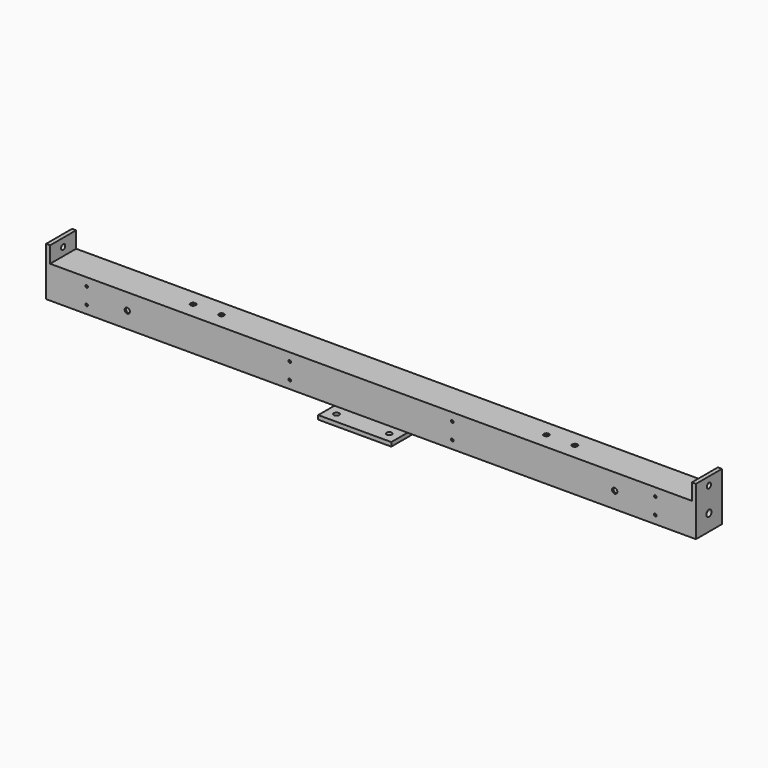
from build123d import *

# Parameters (mm, degrees)
F0_W      = 40
F0_H      = 40
F0_W_2    = 36
F0_H_2    = 36
F1_DEPTH  = 400
F2_W      = 40
F2_H      = 60
F3_DEPTH  = 5
F4_D      = 6.4
F6_D      = 6.5
F8_D      = 3.2
F9_D      = 8
F10_D     = 6.5
F13_W     = 90
F13_H     = 25
F13_H_2   = 40
F14_DEPTH = 5
F16_D     = 6.5
F17_D     = 14
F17_DEPTH = 10
F17_TIP   = 4.2060243332


with BuildPart() as f1:
    # F0 (on Right) → F1 (new body)
    with BuildSketch(Plane.YZ):
        Rectangle(F0_W, F0_H)
        Rectangle(F0_W_2, F0_H_2, mode=Mode.SUBTRACT)
    extrude(amount=F1_DEPTH)

    # F2 (on Right) → F3 (join)
    with BuildSketch(Plane.YZ):
        with Locations((0, 10)):
            Rectangle(F2_W, F2_H)
    extrude(amount=F3_DEPTH)

    # F4 (through all)
    with Locations(Plane(origin=(0, 0, 0), x_dir=(0, 1, 0), z_dir=(-1, 0, 0))):
        with Locations((0, -30)):
            Hole(F4_D / 2)

    # F6 (through all)
    with Locations(Plane.XY.offset(20)):
        with Locations((165, 0), (200, 0)):
            Hole(F6_D / 2)

    # F8 (through all)
    with Locations(Plane.XZ.offset(20)):
        with Locations((50, 10), (50, -10), (300, 10), (300, -10)):
            Hole(F8_D / 2)

    # F9 (through all)
    with Locations(Plane(origin=(0, 0, 0), x_dir=(0, 1, 0), z_dir=(-1, 0, 0))):
        with Locations((0, 0)):
            Hole(F9_D / 2)

    # F10 (through all)
    with Locations(Plane.XZ.offset(20)):
        with Locations((100, 0)):
            Hole(F10_D / 2)

    # F12: F1 across face


with BuildPart() as f1_1:
    add(f1.part)
    add(f1.part.mirror(Plane.YZ.offset(400)))

    # F13 (on face) → F14 (join)
    with BuildSketch(Plane(origin=(0, 0, -20), x_dir=(1, 0, 0), z_dir=(0, 0, -1))):
        with Locations((400, 32.5)):
            Rectangle(F13_W, F13_H)
        with Locations((400, -32.5)):
            Rectangle(F13_W, F13_H)
        with Locations((400, 0)):
            Rectangle(F13_W, F13_H_2)
    extrude(amount=F14_DEPTH)

    # F16 (through all)
    with Locations(Plane(origin=(0, 0, -25), x_dir=(1, 0, 0), z_dir=(0, 0, -1))):
        with Locations((367.5, 32.5), (432.5, 32.5), (432.5, -32.5), (367.5, -32.5)):
            Hole(F16_D / 2)

    # F17
    with Locations(Plane(origin=(0, 0, -25), x_dir=(1, 0, 0), z_dir=(0, 0, -1))):
        with Locations((400, 0)):
            Hole(F17_D / 2, depth=F17_DEPTH)
            with Locations((0, 0, -(F17_DEPTH + F17_TIP / 2))):  # 118° drill point
                Cone(0, F17_D / 2, F17_TIP, mode=Mode.SUBTRACT)


solid = f1_1.part
